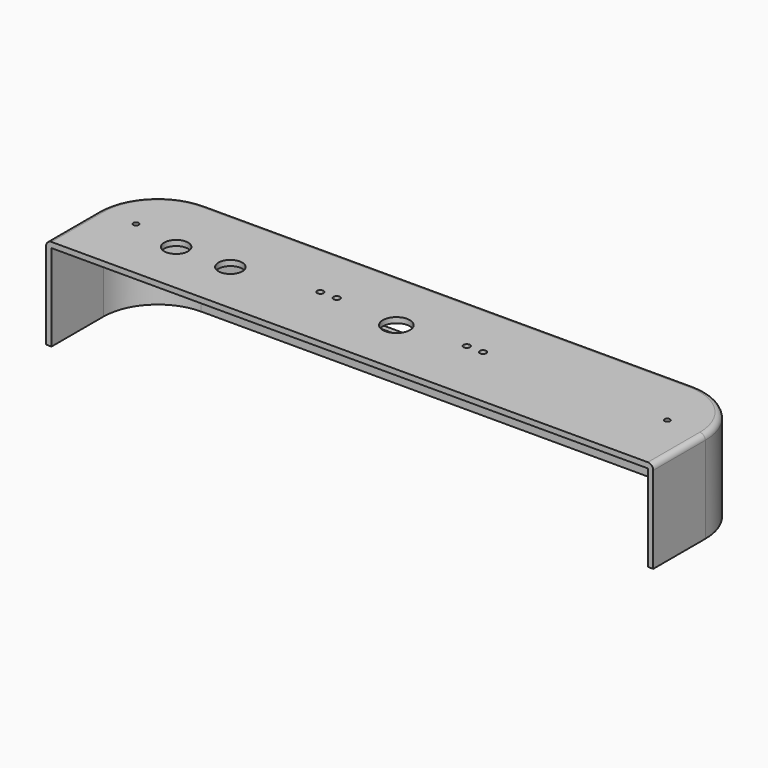
from build123d import *

# Parameters (mm, degrees)
PAD_DEPTH       = 80
THICKNESS_T     = 5
SKETCH002_R     = 11
SKETCH002_R_2   = 2.5
POCKET001_DEPTH = 5
SKETCH003_W     = 300
SKETCH003_H     = 15
POCKET002_DEPTH = 5
SKETCH004_W     = 729.94403
SKETCH004_H     = 312.833175
POCKET_DEPTH    = 5
SKETCH005_R     = 3
HOLE_DEPTH      = 25
SKETCH006_R     = 12.5
POCKET003_DEPTH = 5


with BuildPart() as part:
    # Sketch → Pad (new body)
    with BuildSketch(Plane.XY):
        with BuildLine():
            Line((275, 0), (275, 60))
            ThreePointArc((275, 60), (260.355339, 95.355339), (225, 110))
            Line((225, 110), (-225, 110))
            ThreePointArc((-225, 110), (-260.355339, 95.355339), (-275, 60))
            Line((-275, 60), (-275, 0))
            Line((-275, 0), (275, 0))
        make_face()
    extrude(amount=PAD_DEPTH)

    # Thickness
    thickness_openings = [part.faces().sort_by_distance(p)[0] for p in [
        (0, 0, 40),
    ]]
    offset(amount=THICKNESS_T, openings=thickness_openings)

    # Sketch002 → Pocket001 (cut)
    with BuildSketch(Plane.XY.offset(85)):
        with Locations((-200, 50)):
            Circle(SKETCH002_R)
        with Locations((-150, 50)):
            Circle(SKETCH002_R)
        with Locations((-245, 60)):
            Circle(SKETCH002_R_2)
        with Locations((245, 60)):
            Circle(SKETCH002_R_2)
    extrude(amount=-POCKET001_DEPTH, mode=Mode.SUBTRACT)

    # Sketch003 (on Face15 of Pocket001) → Pocket002 (cut)
    with BuildSketch(Plane.XZ.offset(-110)):
        with Locations((-10, 47.5)):
            Rectangle(SKETCH003_W, SKETCH003_H)
    extrude(amount=-POCKET002_DEPTH, mode=Mode.SUBTRACT)

    # Sketch004 (on Face10 of Pocket002) → Pocket (cut)
    with BuildSketch(Plane(origin=(0, 0, -5), x_dir=(1, 0, 0), z_dir=(0, 0, -1))):
        with Locations((-35.610138, -20.133613)):
            Rectangle(SKETCH004_W, SKETCH004_H)
    extrude(amount=-POCKET_DEPTH, mode=Mode.SUBTRACT)

    # Sketch005 (on Face9 of Pocket) → Hole (cut)
    with BuildSketch(Plane.XY.offset(85)):
        with Locations((-75, 60)):
            Circle(SKETCH005_R)
        with Locations((-60, 60)):
            Circle(SKETCH005_R)
        with Locations((60, 60)):
            Circle(SKETCH005_R)
        with Locations((75, 60)):
            Circle(SKETCH005_R)
    extrude(amount=-HOLE_DEPTH, mode=Mode.SUBTRACT)

    # Sketch006 (on Face9 of Hole) → Pocket003 (cut)
    with BuildSketch(Plane.XY.offset(85)):
        with Locations((0, 53.851604)):
            Circle(SKETCH006_R)
    extrude(amount=-POCKET003_DEPTH, mode=Mode.SUBTRACT)


solid = part.part
